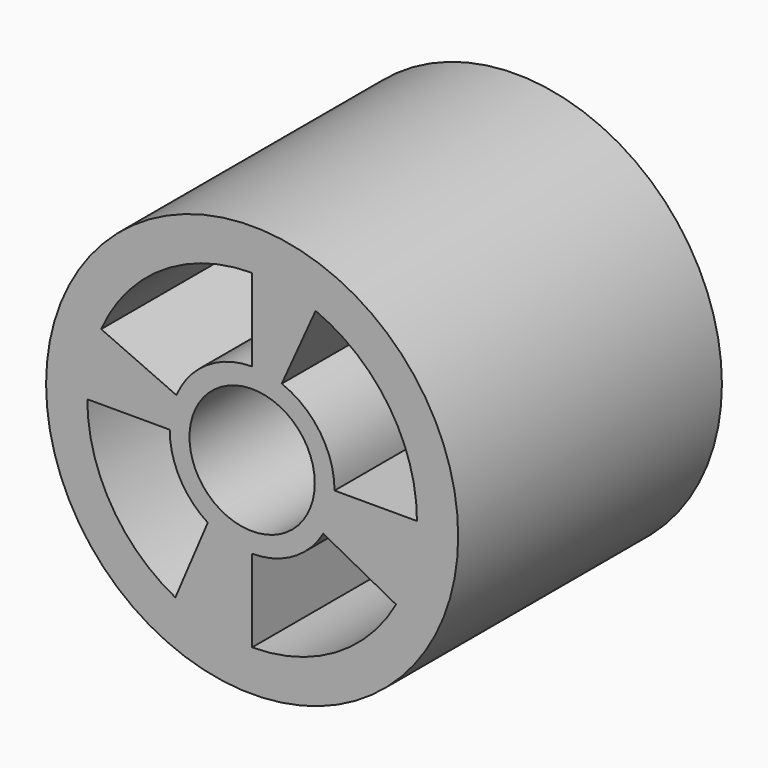
from build123d import *

# Parameters (mm, degrees)
F0_R     = 15.875
F0_R_2   = 4.826
F1_DEPTH = 25.4


with BuildPart() as f1:
    # F0 (on Front) → F1 (new body)
    with BuildSketch(Plane.XZ):
        Circle(F0_R)
        with BuildLine():
            ThreePointArc((4.891009, 11.720411), (10.56896, 7.04181), (12.7, 0))
            ThreePointArc((12.7, 0), (12.291071, -3.196806), (11.09062, -6.187743))
            ThreePointArc((11.09062, -6.187743), (6.430617, -10.951583), (0, -12.7))
            ThreePointArc((0, -12.7), (-3.046434, -12.329203), (-5.914977, -11.238463))
            ThreePointArc((-5.914977, -11.238463), (-10.872217, -6.563908), (-12.7, 0))
            ThreePointArc((-12.7, 0), (-12.429648, 2.606501), (-11.630103, 5.10203))
            ThreePointArc((-11.630103, 5.10203), (-6.946014, 10.632163), (0, 12.7))
            ThreePointArc((0, 12.7), (2.494071, 12.452695), (4.891009, 11.720411))
        make_face(mode=Mode.SUBTRACT)
        with BuildLine():
            Line((2.281079, 5.926144), (4.891009, 11.720411))
            ThreePointArc((4.891009, 11.720411), (2.494071, 12.452695), (0, 12.7))
            Line((0, 12.7), (0, 6.35))
            ThreePointArc((0, 6.35), (1.160062, 6.243137), (2.281079, 5.926144))
        make_face()
        with BuildLine():
            Line((-5.833724, 2.508019), (-11.630103, 5.10203))
            ThreePointArc((-11.630103, 5.10203), (-12.429648, 2.606501), (-12.7, 0))
            Line((-12.7, 0), (-6.35, 0))
            ThreePointArc((-6.35, 0), (-6.219592, 1.280303), (-5.833724, 2.508019))
        make_face()
        with BuildLine():
            ThreePointArc((-5.914977, -11.238463), (-3.046434, -12.329203), (0, -12.7))
            Line((0, -12.7), (0, -6.35))
            ThreePointArc((0, -6.35), (-1.77968, -6.09551), (-3.416711, -5.352437))
            Line((-3.416711, -5.352437), (-5.914977, -11.238463))
        make_face()
        with BuildLine():
            ThreePointArc((11.09062, -6.187743), (12.291071, -3.196806), (12.7, 0))
            Line((12.7, 0), (6.35, 0))
            ThreePointArc((6.35, 0), (6.129141, -1.660162), (5.481926, -3.204839))
            Line((5.481926, -3.204839), (11.09062, -6.187743))
        make_face()
        with BuildLine():
            ThreePointArc((5.481926, -3.204839), (6.129141, -1.660162), (6.35, 0))
            ThreePointArc((6.35, 0), (5.234852, 3.594276), (2.281079, 5.926144))
            ThreePointArc((2.281079, 5.926144), (1.160062, 6.243137), (0, 6.35))
            ThreePointArc((0, 6.35), (-3.492605, 5.303226), (-5.833724, 2.508019))
            ThreePointArc((-5.833724, 2.508019), (-6.219592, 1.280303), (-6.35, 0))
            ThreePointArc((-6.35, 0), (-5.5686, -3.051752), (-3.416711, -5.352437))
            ThreePointArc((-3.416711, -5.352437), (-1.77968, -6.09551), (0, -6.35))
            ThreePointArc((0, -6.35), (3.160045, -5.507868), (5.481926, -3.204839))
        make_face()
        Circle(F0_R_2, mode=Mode.SUBTRACT)
    extrude(amount=F1_DEPTH)


solid = f1.part
